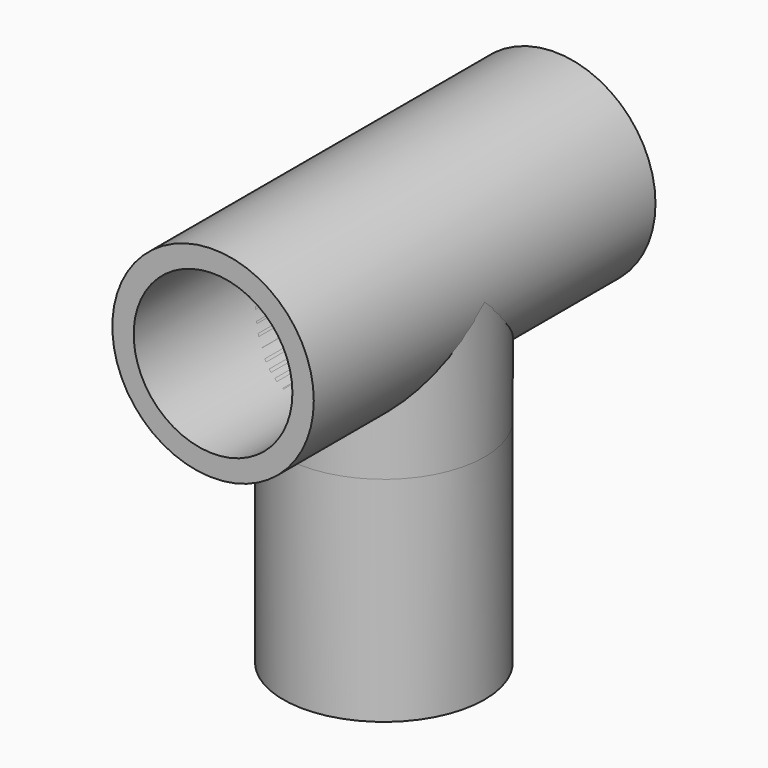
from build123d import *

# Parameters (mm, degrees)
F0_R     = 14.15
F0_R_2   = 11.15
F1_DEPTH = 30
F2_R     = 14.15
F2_R_2   = 11.15
F3_DEPTH = 30
F4_R     = 14.15
F5_DEPTH = 19.15
F6_R     = 11.15
F7_DEPTH = 60


with BuildPart() as f1:
    # F0 (on Top) → F1 (new body)
    with BuildSketch(Plane.XY):
        Circle(F0_R)
        Circle(F0_R_2, mode=Mode.SUBTRACT)
    extrude(amount=F1_DEPTH)


with BuildPart() as f3:
    # F2 (on Front) → F3 (new body, symmetric)
    with BuildSketch(Plane.XZ):
        with Locations((0, 49.15)):
            Circle(F2_R)
        with Locations((0, 49.15)):
            Circle(F2_R_2, mode=Mode.SUBTRACT)
    extrude(amount=F3_DEPTH, both=True)


with BuildPart() as f5:
    # F4 (on face) → F5 (new body)
    with BuildSketch(Plane.XY.offset(30)):
        Circle(F4_R)
    extrude(amount=F5_DEPTH)

    # F6 (on face) → F7 (cut)
    with BuildSketch(Plane.XZ.offset(30)):
        with Locations((0, 49.15)):
            Circle(F6_R)
    extrude(amount=-F7_DEPTH, mode=Mode.SUBTRACT)


solid = Compound([f1.part, f3.part, f5.part])
